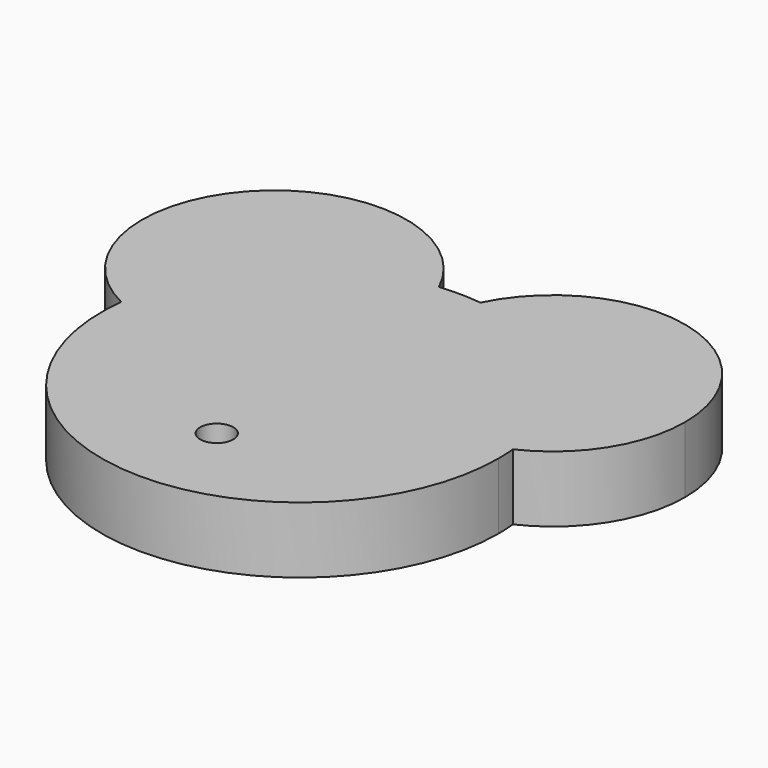
from build123d import *

# Parameters (mm, degrees)
F1_DEPTH = 6.35
F2_R     = 1.5875
F3_DEPTH = 6.35


with BuildPart() as f1:
    # F0 (on Top) → F1 (new body)
    with BuildSketch(Plane.XY):
        with BuildLine():
            ThreePointArc((-1.8402014017, 18.9609113389), (-22.248244758, 22.6512274543), (-18.9248270392, 2.1802342852))
            ThreePointArc((-18.9248270392, 2.1802342852), (-13.3489468548, 13.5907364726), (-1.8402014017, 18.9609113389))
        make_face()
        with BuildLine():
            ThreePointArc((-1.8402014017, 18.9609113389), (-13.3489468548, 13.5907364726), (-18.9248270392, 2.1802342852))
            ThreePointArc((-18.9248270392, 2.1802342852), (-6.6230148875, 2.8180005541), (-0.6489468548, 13.5907364726))
            ThreePointArc((-0.6489468548, 13.5907364726), (-0.9503367058, 16.3410939716), (-1.8402014017, 18.9609113389))
        make_face()
        with BuildLine():
            ThreePointArc((2.1802342852, 18.9248270392), (4.5302454909, 4.4496489516), (18.9609113389, 1.8402014017))
            ThreePointArc((18.9609113389, 1.8402014017), (13.5907364726, 13.3489468548), (2.1802342852, 18.9248270392))
        make_face()
        with BuildLine():
            ThreePointArc((2.1802342852, 18.9248270392), (13.5907364726, 13.3489468548), (18.9609113389, 1.8402014017))
            ThreePointArc((18.9609113389, 1.8402014017), (24.3026742245, 6.5266019794), (26.2907364726, 13.3489468548))
            ThreePointArc((26.2907364726, 13.3489468548), (16.4522589886, 25.7223735786), (2.1802342852, 18.9248270392))
        make_face()
        with BuildLine():
            ThreePointArc((-18.9248270392, 2.1802342852), (-1.0919122914, -19.0186810149), (19.05, 0))
            ThreePointArc((19.05, 0), (19.0277147998, 0.9211783199), (18.9609113389, 1.8402014017))
            ThreePointArc((18.9609113389, 1.8402014017), (4.5302454909, 4.4496489516), (2.1802342852, 18.9248270392))
            ThreePointArc((2.1802342852, 18.9248270392), (0.1709710784, 19.0492327638), (-1.8402014017, 18.9609113389))
            ThreePointArc((-1.8402014017, 18.9609113389), (-0.9503367058, 16.3410939716), (-0.6489468548, 13.5907364726))
            ThreePointArc((-0.6489468548, 13.5907364726), (-6.6230148875, 2.8180005541), (-18.9248270392, 2.1802342852))
        make_face()
    extrude(amount=F1_DEPTH)

    # F2 (on face) → F3 (cut, through all)
    with BuildSketch(Plane(origin=(0, 0, 0), x_dir=(1, 0, 0), z_dir=(0, 0, -1))):
        with Locations((0, 10.0062619895)):
            Circle(F2_R)
    extrude(amount=-F3_DEPTH, mode=Mode.SUBTRACT)


solid = f1.part
